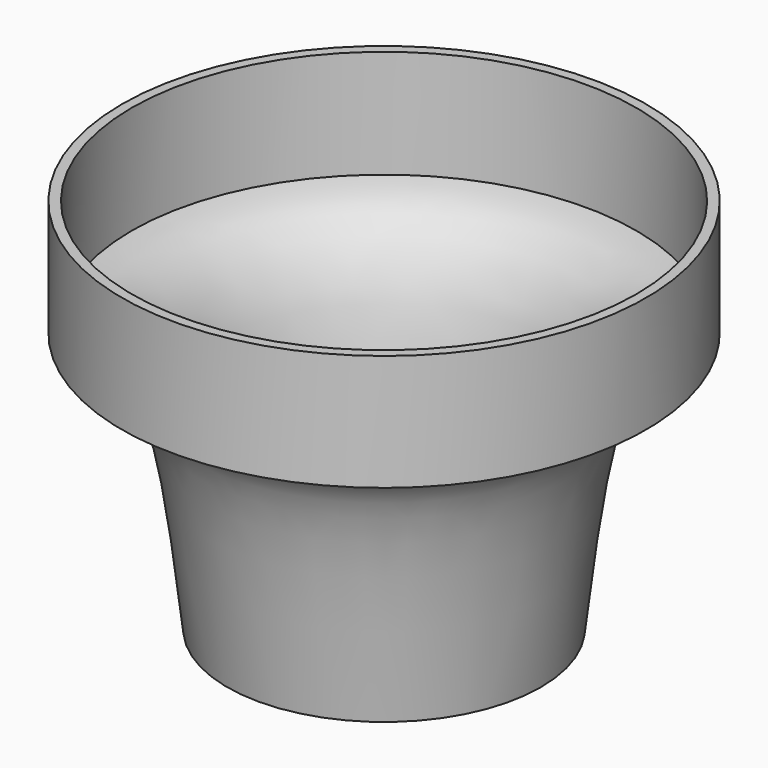
from build123d import *


with BuildPart() as f1:
    # F0 (on Front) → F1 (revolve)
    with BuildSketch(Plane.XZ):
        with BuildLine():
            Line((-39.6268814802, -75.775064528), (0, -75.775064528))
            Line((0, -75.775064528), (0, -73.912627995))
            Line((0, -73.912627995), (-37.4398119748, -73.912627995))
            add(Edge.make_bspline(
                [(-63.7611746788, -7.8248893842), (-61.8197506908, -8.2379394689), (-57.7521867901, -9.1033391055), (-51.7177700576, -13.5617736719), (-47.0440371995, -20.3383458348), (-43.4166366206, -31.4969154038), (-39.8514759143, -54.6012890338), (-38.2211080592, -67.6564190478), (-37.4398119748, -73.912627995)],
                knots=[0, 0, 0, 0, 0.1189874452, 0.2492958981, 0.3850350264, 0.5499094084, 0.7843100158, 1, 1, 1, 1], degree=3))
            Line((-63.7611746788, -7.8248893842), (-63.7611746788, 19.5109453052))
            Line((-63.7611746788, 19.5109453052), (-66.2464648485, 19.5109453052))
            Line((-66.2464648485, 19.5109453052), (-66.2464648485, -9.8310960457))
            add(Edge.make_bspline(
                [(-39.6268814802, -75.775064528), (-42.0544875966, -54.2587419261), (-45.5777104732, -23.0317650705), (-55.2492129351, -14.0062862174), (-59.952688288, -10.2002661155), (-64.1087405461, -9.9564871876), (-66.2464648485, -9.8310960457)],
                knots=[0, 0, 0, 0, 0.4749851397, 0.6893533917, 0.8402145202, 1, 1, 1, 1], degree=3))
        make_face()
    revolve(axis=Axis((0, 0, -74.8438462615), (0, 0, -1)))


solid = f1.part
